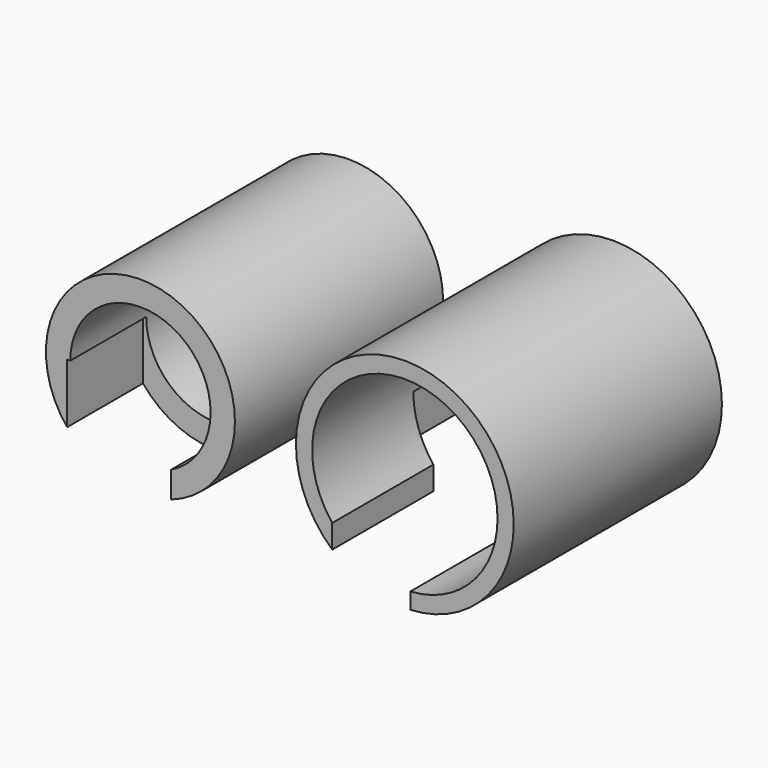
from build123d import *

# Parameters (mm, degrees)
F0_R     = 18.15707
F0_R_2   = 13.478783
F1_DEPTH = 50
F3_DEPTH = 25
F4_R     = 20.91971
F4_R_2   = 17.808655
F5_DEPTH = 50
F7_DEPTH = 25


with BuildPart() as f1:
    # F0 (on Front) → F1 (new body)
    with BuildSketch(Plane.XZ):
        Circle(F0_R)
        Circle(F0_R_2, mode=Mode.SUBTRACT)
    extrude(amount=F1_DEPTH)

    # F2 (on Top) → F3 (cut)
    with BuildSketch(Plane.XY):
        Polygon((-14.093754, -31.762581), (-14.093754, -66.762581), (5.892819, -66.029838), (5.892819, -31.762581), align=None)
    extrude(amount=-F3_DEPTH, mode=Mode.SUBTRACT)


with BuildPart() as f5:
    # F4 (on Front) → F5 (new body)
    with BuildSketch(Plane.XZ):
        with Locations((50.795469, 0)):
            Circle(F4_R)
        with Locations((50.795469, 0)):
            Circle(F4_R_2, mode=Mode.SUBTRACT)
    extrude(amount=F5_DEPTH)

    # F6 (on Top) → F7 (cut)
    with BuildSketch(Plane.XY):
        Polygon((36.845692, -60.705871), (51.845692, -60.705871), (51.867453, -10.705876), (31.867453, -10.705876), (31.867453, -25.705876), (36.845692, -25.705876), align=None)
    extrude(amount=-F7_DEPTH, mode=Mode.SUBTRACT)


solid = Compound([f1.part, f5.part])
